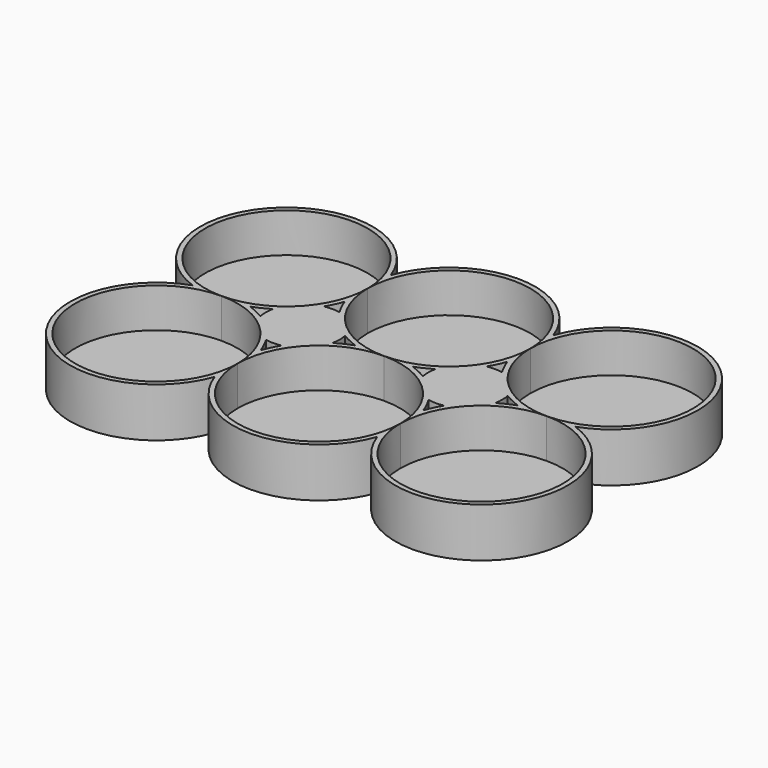
from build123d import *

# Parameters (mm, degrees)
PAD_DEPTH       = 10
SKETCH001_R     = 16.5
POCKET_DEPTH    = 8
SKETCH002_R     = 16.5
POCKET001_DEPTH = 8
SKETCH003_R     = 16.5
POCKET002_DEPTH = 8
SKETCH004_R     = 16.5
POCKET003_DEPTH = 8
SKETCH005_R     = 16.5
POCKET004_DEPTH = 8
SKETCH006_R     = 16.5
POCKET005_DEPTH = 8
SKETCH007_R     = 5.125
POCKET006_DEPTH = 1.15
SKETCH008_R     = 5.125
POCKET007_DEPTH = 1.15


with BuildPart() as part:
    # Sketch → Pad (new body)
    with BuildSketch(Plane.XY):
        with BuildLine():
            ThreePointArc((71.830952, -16.5), (78.374369, 12.374369), (49.5, 5.830952))
            ThreePointArc((49.5, 5.830952), (33, 17.5), (16.5, 5.830952))
            ThreePointArc((16.5, 5.830952), (-12.374369, 12.374369), (-5.830952, -16.5))
            ThreePointArc((-5.830952, -16.5), (-12.374369, -45.374369), (16.5, -38.830952))
            ThreePointArc((16.5, -38.830952), (33, -50.5), (49.5, -38.830952))
            ThreePointArc((49.5, -38.830952), (78.374369, -45.374369), (71.830952, -16.5))
        make_face()
        with BuildLine():
            ThreePointArc((5.830952, -16.5), (7.543698, -15.790586), (9.171788, -14.903969))
            ThreePointArc((9.171788, -14.903969), (9, -16.5), (9.171788, -18.096031))
            ThreePointArc((9.171788, -18.096031), (7.543698, -17.209414), (5.830952, -16.5))
        make_face(mode=Mode.SUBTRACT)
        with BuildLine():
            ThreePointArc((47.903969, -9.171788), (48.790586, -7.543698), (49.5, -5.830952))
            ThreePointArc((49.5, -5.830952), (50.209414, -7.543698), (51.096031, -9.171788))
            ThreePointArc((51.096031, -9.171788), (49.5, -9), (47.903969, -9.171788))
        make_face(mode=Mode.SUBTRACT)
        with BuildLine():
            ThreePointArc((18.096031, -23.828212), (17.209414, -25.456302), (16.5, -27.169048))
            ThreePointArc((16.5, -27.169048), (15.790586, -25.456302), (14.903969, -23.828212))
            ThreePointArc((14.903969, -23.828212), (16.5, -24), (18.096031, -23.828212))
        make_face(mode=Mode.SUBTRACT)
        with BuildLine():
            ThreePointArc((47.903969, -23.828212), (49.5, -24), (51.096031, -23.828212))
            ThreePointArc((51.096031, -23.828212), (50.209414, -25.456302), (49.5, -27.169048))
            ThreePointArc((49.5, -27.169048), (48.790586, -25.456302), (47.903969, -23.828212))
        make_face(mode=Mode.SUBTRACT)
        with BuildLine():
            ThreePointArc((14.903969, -9.171788), (15.790586, -7.543698), (16.5, -5.830952))
            ThreePointArc((16.5, -5.830952), (17.209414, -7.543698), (18.096031, -9.171788))
            ThreePointArc((18.096031, -9.171788), (16.5, -9), (14.903969, -9.171788))
        make_face(mode=Mode.SUBTRACT)
        with BuildLine():
            ThreePointArc((23.828212, -18.096031), (24, -16.5), (23.828212, -14.903969))
            ThreePointArc((23.828212, -14.903969), (25.456302, -15.790586), (27.169048, -16.5))
            ThreePointArc((27.169048, -16.5), (25.456302, -17.209414), (23.828212, -18.096031))
        make_face(mode=Mode.SUBTRACT)
        with BuildLine():
            ThreePointArc((42.171788, -18.096031), (40.543698, -17.209414), (38.830952, -16.5))
            ThreePointArc((38.830952, -16.5), (40.543698, -15.790586), (42.171788, -14.903969))
            ThreePointArc((42.171788, -14.903969), (42, -16.5), (42.171788, -18.096031))
        make_face(mode=Mode.SUBTRACT)
        with BuildLine():
            ThreePointArc((56.828212, -18.096031), (57, -16.5), (56.828212, -14.903969))
            ThreePointArc((56.828212, -14.903969), (58.456302, -15.790586), (60.169048, -16.5))
            ThreePointArc((60.169048, -16.5), (58.456302, -17.209414), (56.828212, -18.096031))
        make_face(mode=Mode.SUBTRACT)
    extrude(amount=PAD_DEPTH)

    # Sketch001 (on Face32 of Pad) → Pocket (cut)
    with BuildSketch(Plane.XY.offset(10)):
        Circle(SKETCH001_R)
    extrude(amount=-POCKET_DEPTH, mode=Mode.SUBTRACT)

    # Sketch002 (on Face5 of Pocket) → Pocket001 (cut)
    with BuildSketch(Plane.XY.offset(10)):
        with Locations((33, 0)):
            Circle(SKETCH002_R)
    extrude(amount=-POCKET001_DEPTH, mode=Mode.SUBTRACT)

    # Sketch003 (on Face5 of Pocket001) → Pocket002 (cut)
    with BuildSketch(Plane.XY.offset(10)):
        with Locations((66, 0)):
            Circle(SKETCH003_R)
    extrude(amount=-POCKET002_DEPTH, mode=Mode.SUBTRACT)

    # Sketch004 (on Face5 of Pocket002) → Pocket003 (cut)
    with BuildSketch(Plane.XY.offset(10)):
        with Locations((0, -33)):
            Circle(SKETCH004_R)
    extrude(amount=-POCKET003_DEPTH, mode=Mode.SUBTRACT)

    # Sketch005 (on Face5 of Pocket003) → Pocket004 (cut)
    with BuildSketch(Plane.XY.offset(10)):
        with Locations((33, -33)):
            Circle(SKETCH005_R)
    extrude(amount=-POCKET004_DEPTH, mode=Mode.SUBTRACT)

    # Sketch006 (on Face5 of Pocket004) → Pocket005 (cut)
    with BuildSketch(Plane.XY.offset(10)):
        with Locations((66, -33)):
            Circle(SKETCH006_R)
    extrude(amount=-POCKET005_DEPTH, mode=Mode.SUBTRACT)

    # Sketch007 (on Face4 of Pocket005) → Pocket006 (cut)
    with BuildSketch(Plane(origin=(0, 0, 0), x_dir=(1, 0, 0), z_dir=(0, 0, -1))):
        with Locations((16.5, 16.5)):
            Circle(SKETCH007_R)
    extrude(amount=-POCKET006_DEPTH, mode=Mode.SUBTRACT)

    # Sketch008 (on Face4 of Pocket006) → Pocket007 (cut)
    with BuildSketch(Plane(origin=(0, 0, 0), x_dir=(1, 0, 0), z_dir=(0, 0, -1))):
        with Locations((49.5, 16.5)):
            Circle(SKETCH008_R)
    extrude(amount=-POCKET007_DEPTH, mode=Mode.SUBTRACT)


solid = part.part
